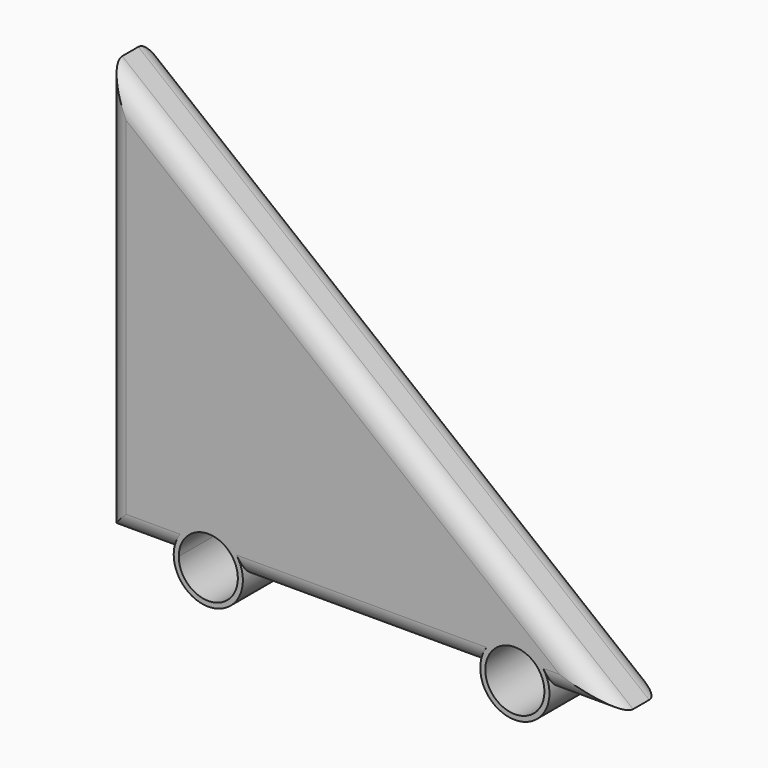
from build123d import *

# Parameters (mm, degrees)
F1_DEPTH = 15
F2_R     = 5
F3_R     = 5
F4_T     = -2.5


with BuildPart() as f1:
    # F0 (on Front) → F1 (new body)
    with BuildSketch(Plane.XZ):
        with BuildLine():
            Line((56.7000245671, -51.0693943679), (-70.2999754329, 50.5306056321))
            Line((-70.2999754329, 50.5306056321), (-70.2999754329, -51.0693943679))
            Line((-70.2999754329, -51.0693943679), (-53.4999754329, -51.0693943679))
            ThreePointArc((-53.4999754329, -51.0693943679), (-44.8999754329, -42.4693943679), (-36.2999754329, -51.0693943679))
            Line((-36.2999754329, -51.0693943679), (22.7000245671, -51.0693943679))
            ThreePointArc((22.7000245671, -51.0693943679), (31.3000245671, -42.4693943679), (39.9000245671, -51.0693943679))
            Line((39.9000245671, -51.0693943679), (56.7000245671, -51.0693943679))
        make_face()
        with BuildLine():
            ThreePointArc((-36.2999754329, -51.0693943679), (-44.8999754329, -42.4693943679), (-53.4999754329, -51.0693943679))
            ThreePointArc((-53.4999754329, -51.0693943679), (-44.8999754329, -59.6557734847), (-36.2999754329, -51.0693943679))
        make_face()
        with BuildLine():
            ThreePointArc((-37.5524947041, -51.0557626811), (-44.8931595866, -58.4032402486), (-52.2474435165, -51.0693943679))
            ThreePointArc((-52.2474435165, -51.0693943679), (-44.9067912793, -43.7082851136), (-37.5524947041, -51.0557626811))
        make_face(mode=Mode.SUBTRACT)
        with BuildLine():
            ThreePointArc((22.7000245671, -51.0693943679), (31.3000245671, -59.6537478643), (39.9000245671, -51.0693943679))
            ThreePointArc((39.9000245671, -51.0693943679), (31.3000245671, -42.4693943679), (22.7000245671, -51.0693943679))
        make_face()
        with BuildLine():
            ThreePointArc((38.6475245671, -51.053733605), (38.6475203945, -51.0615639909), (38.647507877, -51.0693943679))
            ThreePointArc((38.647507877, -51.0693943679), (23.9525287396, -51.0459032191), (38.6475245671, -51.053733605))
        make_face(mode=Mode.SUBTRACT)
    extrude(amount=F1_DEPTH)

    # F2
    f2_edges = [f1.edges().sort_by_distance(p)[0] for p in [
        (-70.299975, -15, -0.269394),
        (-6.799975, -15, -0.269394),
        (-6.799975, -15, -51.069394),
        (-61.899975, -15, -51.069394),
        (48.300025, -15, -51.069394),
    ]]
    fillet(f2_edges, radius=F2_R)

    # F3
    f3_edges = [f1.edges().sort_by_distance(p)[0] for p in [
        (-6.799975, 0, -0.269394),
        (-6.799975, 0, -51.069394),
        (48.300025, 0, -51.069394),
        (-70.299975, 0, -0.269394),
        (-61.899975, 0, -51.069394),
    ]]
    fillet(f3_edges, radius=F3_R)

    # F4 (hollow: no face is removed)
    offset(amount=F4_T, mode=Mode.SUBTRACT)


solid = f1.part
